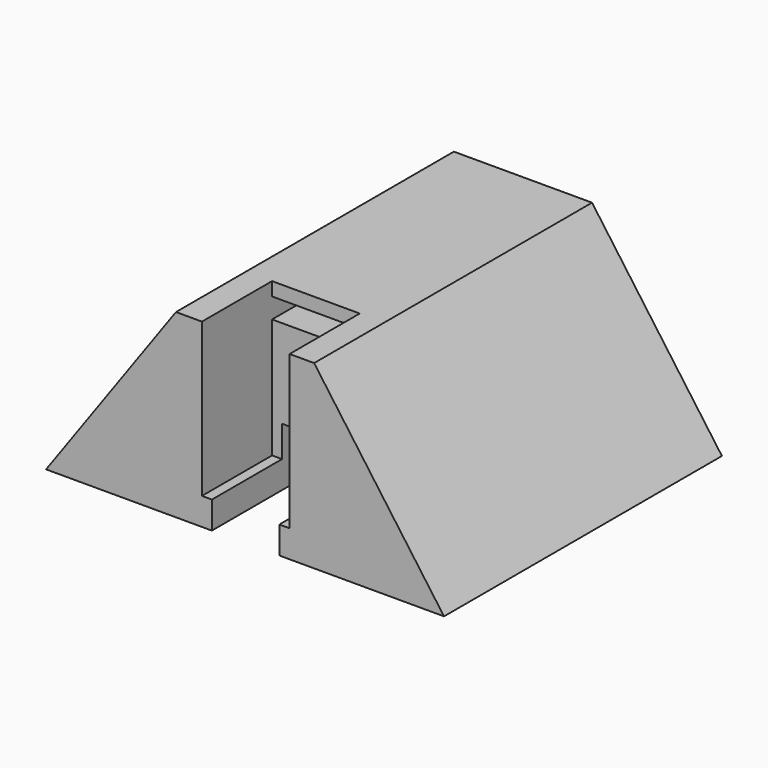
from build123d import *

# Parameters (mm, degrees)
F0_W      = 59
F0_H      = 51.5
F1_DEPTH  = 26.8
F3_DEPTH  = 51.501
F4_W      = 13
F4_H      = 13
F5_DEPTH  = 22.75
F6_W      = 13
F6_H      = 3
F7_DEPTH  = 5
F9_W      = 10
F9_H      = 8.67
F10_DEPTH = 51.501


with BuildPart() as f1:
    # F0 (on Top) → F1 (new body)
    with BuildSketch(Plane.XY):
        Rectangle(F0_W, F0_H)
    extrude(amount=F1_DEPTH)

    # F2 (on face) → F3 (cut, through all)
    with BuildSketch(Plane.XZ.offset(25.75)):
        Polygon((10.242246, 26.8), (29.5, 0), (29.5, 26.8), align=None)
        Polygon((-29.5, 26.8), (-29.5, 0), (-10.242246, 26.8), align=None)
    extrude(amount=-F3_DEPTH, mode=Mode.SUBTRACT)

    # F4 (on face) → F5 (cut)
    with BuildSketch(Plane.XY.offset(26.8)):
        with Locations((0.104, -19.25)):
            Rectangle(F4_W, F4_H)
    extrude(amount=-F5_DEPTH, mode=Mode.SUBTRACT)

    # F6 (on face) → F7 (cut)
    with BuildSketch(Plane.XZ.offset(12.75)):
        with Locations((0.104, 23.3)):
            Rectangle(F6_W, F6_H)
    extrude(amount=-F7_DEPTH, mode=Mode.SUBTRACT)

    # F9 (on face) → F10 (cut, through all)
    with BuildSketch(Plane.XZ.offset(25.75)):
        with Locations((0.08, 4.335)):
            Rectangle(F9_W, F9_H)
    extrude(amount=-F10_DEPTH, mode=Mode.SUBTRACT)


solid = f1.part
